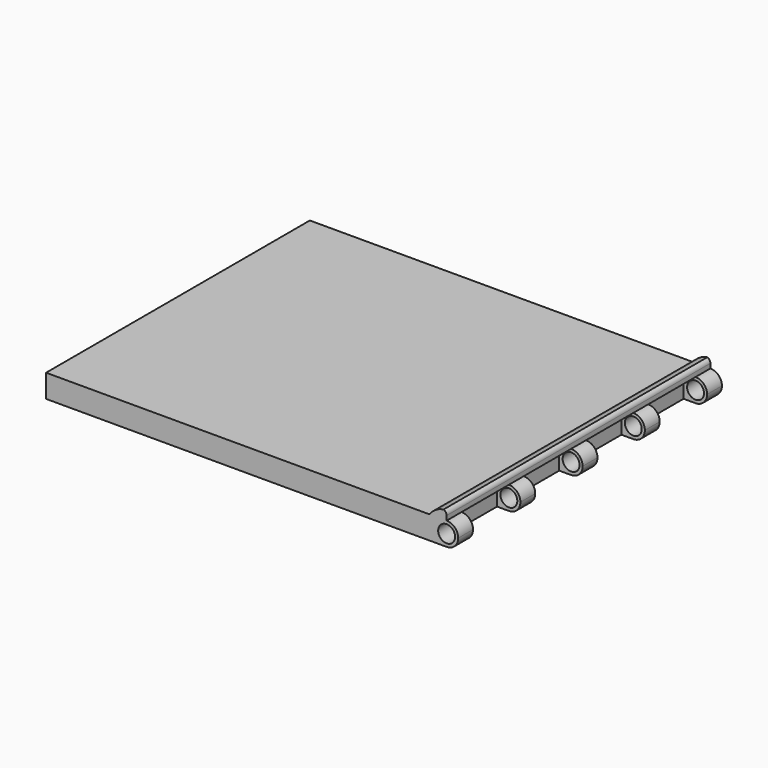
from build123d import *

# Parameters (mm, degrees)
F0_W      = 100
F0_H      = 5.6
F1_DEPTH  = 80
F3_R      = 2.05
F4_DEPTH  = 80
F2_W      = 5.7
F2_H      = 14.37
F2_W_2    = 5.6900524584
F2_W_3    = 5.6801049167
F2_W_4    = 5.6701573751
F5_DEPTH  = 5.6
F6_DEPTH  = 80
F8_ANGLE  = 45
F10_DEPTH = 5.6
F12_DEPTH = 7.185
F11_R     = 2.05
F13_DEPTH = 14.37


with BuildPart() as f1:
    # F0 (on Front) → F1 (new body)
    with BuildSketch(Plane.XZ):
        with Locations((50, 2.8)):
            Rectangle(F0_W, F0_H)
    extrude(amount=F1_DEPTH)

    # F3 (on face) → F4 (cut)
    with BuildSketch(Plane(origin=(0, 0, 0), x_dir=(-1, 0, 0), z_dir=(0, 1, 0))):
        with BuildLine():
            ThreePointArc((-100, 2.8), (-99.1798989873, 4.7798989873), (-97.2, 5.6))
            Line((-97.2, 5.6), (-100, 5.6))
            Line((-100, 5.6), (-100, 2.8))
        make_face()
        with BuildLine():
            ThreePointArc((-97.2, 0), (-99.1798989873, 0.8201010127), (-100, 2.8))
            Line((-100, 2.8), (-100, 0))
            Line((-100, 0), (-97.2, 0))
        make_face()
        with Locations((-97.2, 2.8)):
            Circle(F3_R)
    extrude(amount=-F4_DEPTH, mode=Mode.SUBTRACT)

    # F2 (on face) → F5 (cut)
    with BuildSketch(Plane.XY.offset(5.6)):
        with Locations((97.15, -11.689)):
            Rectangle(F2_W, F2_H)
        with Locations((97.1549737708, -30.5629973786)):
            Rectangle(F2_W_2, F2_H)
        with Locations((97.1599475416, -49.4369947571)):
            Rectangle(F2_W_3, F2_H)
        with Locations((97.1649213125, -68.3109921357)):
            Rectangle(F2_W_4, F2_H)
    extrude(amount=-F5_DEPTH, mode=Mode.SUBTRACT)

    # F3 (on face) → F6 (join)
    with BuildSketch(Plane(origin=(0, 0, 0), x_dir=(-1, 0, 0), z_dir=(0, 1, 0))):
        with BuildLine():
            ThreePointArc((-96.4487730361, 7.7432436768), (-96.9926506427, 7.3427867688), (-97.2, 6.7))
            ThreePointArc((-97.2, 6.7), (-96.8778174593, 5.9221825407), (-96.1, 5.6))
            Line((-96.1, 5.6), (-94.4, 5.6))
            Line((-94.4, 5.6), (-93.0575369646, 5.6))
            ThreePointArc((-93.0575369646, 5.6), (-94.5287785908, 7.0266507051), (-96.4487730361, 7.7432436768))
        make_face()
        with BuildLine():
            ThreePointArc((-96.1, 5.6), (-96.8778174593, 5.9221825407), (-97.2, 6.7))
            Line((-97.2, 6.7), (-97.2, 5.6))
            Line((-97.2, 5.6), (-96.1, 5.6))
        make_face()
    extrude(amount=-F6_DEPTH)

    # F7 (on face) → F8 (revolve)
    with BuildSketch(Plane(origin=(0, 0, 0), x_dir=(1, 0, 0), z_dir=(0, 0, -1))):
        with BuildLine():
            Line((39.6402182962, 7.3743059291), (8.9597817038, 32.6256940709))
            ThreePointArc((8.9597817038, 32.6256940709), (11.6743059291, 4.6597817038), (39.6402182962, 7.3743059291))
        make_face()
    revolve(axis=Axis((24.3, -20, 0), (-0.7721136423, -0.6354844793, 0)), revolution_arc=F8_ANGLE)

    # F9 (on face) → F10 (join)
    with BuildSketch(Plane(origin=(9.8133247181, -11.9231895325, -15.442272846), x_dir=(0.8933530871, 0.274620552, 0.3556737467), z_dir=(0.4493553846, -0.5459667923, -0.7071067812))):
        Polygon((8.4025323119, 2.4046372142), (11.2193246755, 7.2446455593), (5.0094211114, 10.8586907615), (2.1926287478, 6.0186824164), align=None)
    extrude(amount=F10_DEPTH)

    # F11 (on face) → F12 (cut)
    with BuildSketch(Plane(origin=(-0.874285956, -0.7195769186, 0), x_dir=(0.6354844793, -0.7721136423, 0), z_dir=(-0.7721136423, -0.6354844793, 0))):
        with BuildLine():
            ThreePointArc((25.8401079833, -12.9640336579), (23.8602089959, -13.7841346706), (21.8803100086, -12.9640336579))
            Line((21.8803100086, -12.9640336579), (23.8602089959, -14.9439326453))
            Line((23.8602089959, -14.9439326453), (25.8401079833, -12.9640336579))
        make_face()
        with BuildLine():
            Line((27.8200069706, -10.9841346706), (25.8401079833, -9.0042356833))
            ThreePointArc((25.8401079833, -9.0042356833), (26.447071687, -9.91262106), (26.6602089959, -10.9841346706))
            ThreePointArc((26.6602089959, -10.9841346706), (26.447071687, -12.0556482812), (25.8401079833, -12.9640336579))
            Line((25.8401079833, -12.9640336579), (27.8200069706, -10.9841346706))
        make_face()
    extrude(amount=-F12_DEPTH, mode=Mode.SUBTRACT)

    # F11 (on face) → F13 (join)
    with BuildSketch(Plane(origin=(-0.874285956, -0.7195769186, 0), x_dir=(0.6354844793, -0.7721136423, 0), z_dir=(-0.7721136423, -0.6354844793, 0))):
        with BuildLine():
            ThreePointArc((21.1024925493, -12.1862161986), (19.9483442634, -11.9304113338), (19.228840788, -12.8683927535))
            ThreePointArc((19.228840788, -12.8683927535), (19.4976789162, -13.4271515153), (19.8336101906, -13.9483381152))
            ThreePointArc((19.8336101906, -13.9483381152), (20.5013555296, -14.0497518637), (21.1024925493, -13.7418511172))
            ThreePointArc((21.1024925493, -13.7418511172), (21.42467509, -12.9640336579), (21.1024925493, -12.1862161986))
        make_face()
        with BuildLine():
            Line((19.9004110213, -10.9841346706), (18.8602089959, -10.9841346706))
            ThreePointArc((18.8602089959, -10.9841346706), (18.9532322771, -11.9441239832), (19.228840788, -12.8683927535))
            ThreePointArc((19.228840788, -12.8683927535), (19.9483442634, -11.9304113338), (21.1024925493, -12.1862161986))
            Line((21.1024925493, -12.1862161986), (19.9004110213, -10.9841346706))
        make_face()
        with BuildLine():
            Line((21.8803100086, -12.9640336579), (21.1024925493, -12.1862161986))
            ThreePointArc((21.1024925493, -12.1862161986), (21.42467509, -12.9640336579), (21.1024925493, -13.7418511172))
            Line((21.1024925493, -13.7418511172), (21.8803100086, -12.9640336579))
        make_face()
        with Locations((23.8602089959, -10.9841346706)):
            Circle(F11_R)
    extrude(amount=-F13_DEPTH)


solid = f1.part
